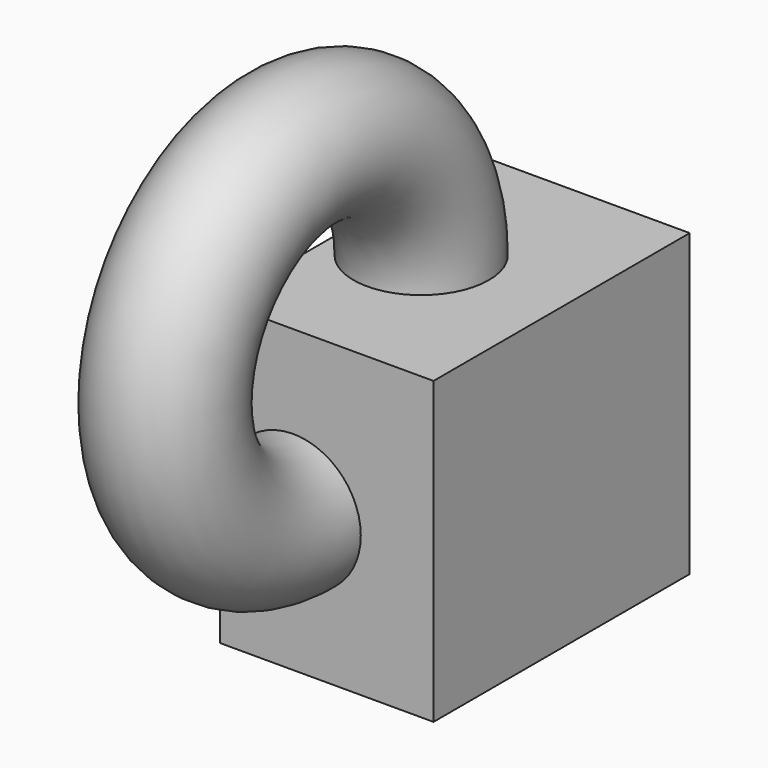
from build123d import *

# Parameters (mm, degrees)
F0_W     = 50.8
F0_H     = 71.4282666582
F1_DEPTH = 76.2
F2_R     = 16.1090010983


with BuildPart() as f1:
    # F0 (on Front) → F1 (new body)
    with BuildSketch(Plane.XZ):
        with Locations((12.9694777326, 0)):
            Rectangle(F0_W, F0_H)
    extrude(amount=F1_DEPTH)


with BuildPart() as f3:
    # F2 (on face) → F3 (revolve)
    with BuildSketch(Plane.XY.offset(35.7141333291)):
        with Locations((4.9534030259, -38.1)):
            Circle(F2_R)
    revolve(axis=Axis((12.9694777326, -76.2, 35.7141333291), (-1, 0, 0)))


solid = Compound([f1.part, f3.part])
